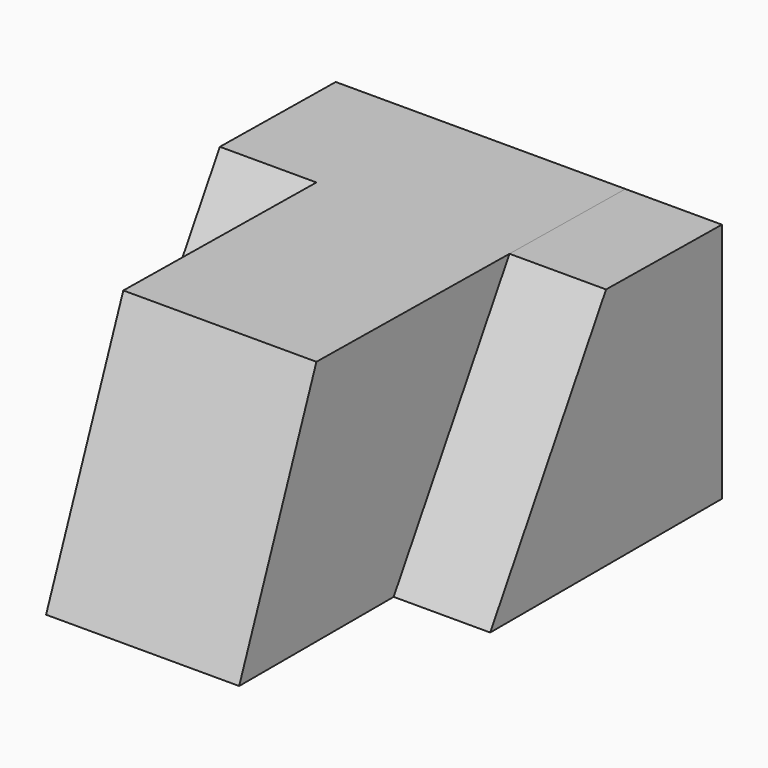
from build123d import *

# Parameters (mm, degrees)
F1_DEPTH = 38.1
F3_DEPTH = 12.7
F5_DEPTH = 12.7
F7_DEPTH = 25.4
F9_DEPTH = 50.8


with BuildPart() as f1:
    # F0 (on Right) → F1 (new body)
    with BuildSketch(Plane.YZ):
        Polygon((0, 0), (0, 31.75), (-63.5, 32.545739), (-63.5, 0), align=None)
    extrude(amount=F1_DEPTH)

    # F2 (on face) → F3 (cut)
    with BuildSketch(Plane(origin=(0, 0, 0), x_dir=(0, -1, 0), z_dir=(-1, 0, 0))):
        Polygon((63.5, 32.545739), (19.05, 31.988722), (38.1, 0), (63.5, 0), align=None)
    extrude(amount=-F3_DEPTH, mode=Mode.SUBTRACT)

    # F4 (on face) → F5 (join)
    with BuildSketch(Plane.YZ.offset(38.1)):
        Polygon((0, 31.75), (-19.05, 31.988722), (-38.1, 0), (0, 0), align=None)
    extrude(amount=F5_DEPTH)

    # F6 (on face) → F7 (cut)
    with BuildSketch(Plane(origin=(12.7, 0, 0), x_dir=(0, -1, 0), z_dir=(-1, 0, 0))):
        Polygon((63.5, 32.545739), (50.8, 32.386591), (63.5, 0), align=None)
    extrude(amount=F7_DEPTH, mode=Mode.SUBTRACT)

    # F8 (on face) → F9 (cut)
    with BuildSketch(Plane(origin=(12.7, 0, 0), x_dir=(0, -1, 0), z_dir=(-1, 0, 0))):
        Polygon((63.5, 32.545739), (50.8, 32.386591), (63.5, 0), align=None)
    extrude(amount=-F9_DEPTH, mode=Mode.SUBTRACT)


solid = f1.part
